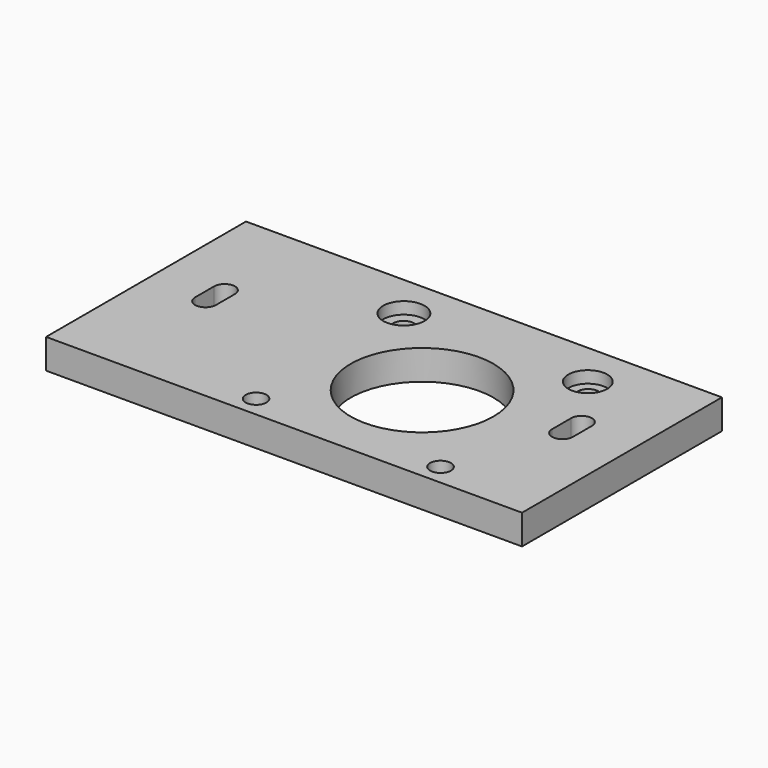
from build123d import *

# Parameters (mm, degrees)
SKETCH045_W     = 80
SKETCH045_H     = 42
PAD009_DEPTH    = 5
SKETCH047_R     = 12
SKETCH047_R_2   = 1.75
POCKET022_DEPTH = 5
SKETCH049_R     = 3.474866
SKETCH049_R_2   = 3.27743
POCKET025_DEPTH = 2


with BuildPart() as part:
    # Sketch045 → Pad009 (new body)
    with BuildSketch(Plane.XY):
        with Locations((0, 11)):
            Rectangle(SKETCH045_W, SKETCH045_H)
    extrude(amount=PAD009_DEPTH)

    # Sketch047 (on Face5 of Pad009) → Pocket022 (cut)
    with BuildSketch(Plane(origin=(0, 0, 0), x_dir=(1, 0, 0), z_dir=(0, 0, -1))):
        with Locations((8, -9)):
            Circle(SKETCH047_R)
        with Locations((-7.5, 6.5)):
            Circle(SKETCH047_R_2)
        with Locations((23.5, 6.5)):
            Circle(SKETCH047_R_2)
        with Locations((-7.5, -24.5)):
            Circle(SKETCH047_R_2)
        with Locations((23.5, -24.5)):
            Circle(SKETCH047_R_2)
        with BuildLine():
            ThreePointArc((-28.25, -11), (-30, -9.25), (-31.75, -11))
            Line((-31.75, -11), (-31.75, -15))
            ThreePointArc((-31.75, -15), (-30, -16.75), (-28.25, -15))
            Line((-28.25, -11), (-28.25, -15))
        make_face()
        with BuildLine():
            ThreePointArc((31.75, -11), (30, -9.25), (28.25, -11))
            Line((28.25, -11), (28.25, -15))
            ThreePointArc((28.25, -15), (30, -16.75), (31.75, -15))
            Line((31.75, -11), (31.75, -15))
        make_face()
    extrude(amount=-POCKET022_DEPTH, mode=Mode.SUBTRACT)

    # Sketch049 (on Face5 of Pocket022) → Pocket025 (cut)
    with BuildSketch(Plane.XY.offset(5)):
        with Locations((-7.509294, 24.561527)):
            Circle(SKETCH049_R)
        with Locations((23.476507, 24.473993)):
            Circle(SKETCH049_R_2)
    extrude(amount=-POCKET025_DEPTH, mode=Mode.SUBTRACT)


with BuildPart() as part_1:
    # Body004 placement: moved
    add(part.part.moved(Location((0, 0, -5))))


solid = part_1.part
